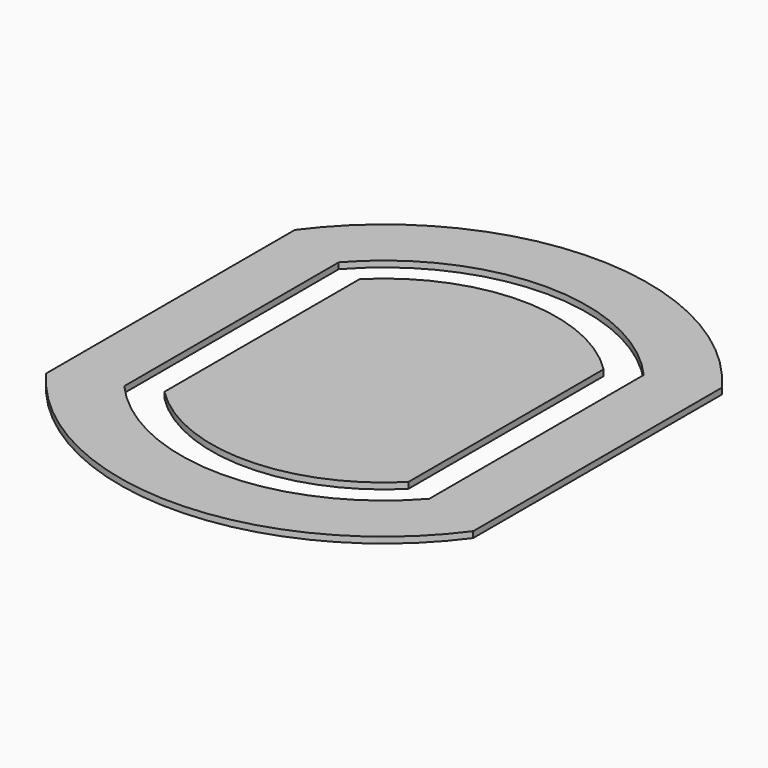
from build123d import *

# Parameters (mm, degrees)
F1_DEPTH = 0.05


with BuildPart() as f1:
    # F0 (on Top) → F1 (new body)
    with BuildSketch(Plane.XY):
        with BuildLine():
            Line((1.75, -1.273311), (1.75, 1.273311))
            ThreePointArc((1.75, 1.273311), (0, 2.164214), (-1.75, 1.273311))
            Line((-1.75, 1.273311), (-1.75, -1.273311))
            ThreePointArc((-1.75, -1.273311), (0, -2.164214), (1.75, -1.273311))
        make_face()
        with BuildLine():
            Line((-1.25, -1.098684), (-1.25, 1.098684))
            ThreePointArc((-1.25, 1.098684), (0, 1.664214), (1.25, 1.098684))
            Line((1.25, 1.098684), (1.25, -1.098684))
            ThreePointArc((1.25, -1.098684), (0, -1.664214), (-1.25, -1.098684))
        make_face(mode=Mode.SUBTRACT)
        with BuildLine():
            ThreePointArc((1, 1), (0, 1.414214), (-1, 1))
            Line((-1, 1), (-1, -1))
            ThreePointArc((-1, -1), (0, -1.414214), (1, -1))
            Line((1, -1), (1, 1))
        make_face()
    extrude(amount=F1_DEPTH)


solid = f1.part
